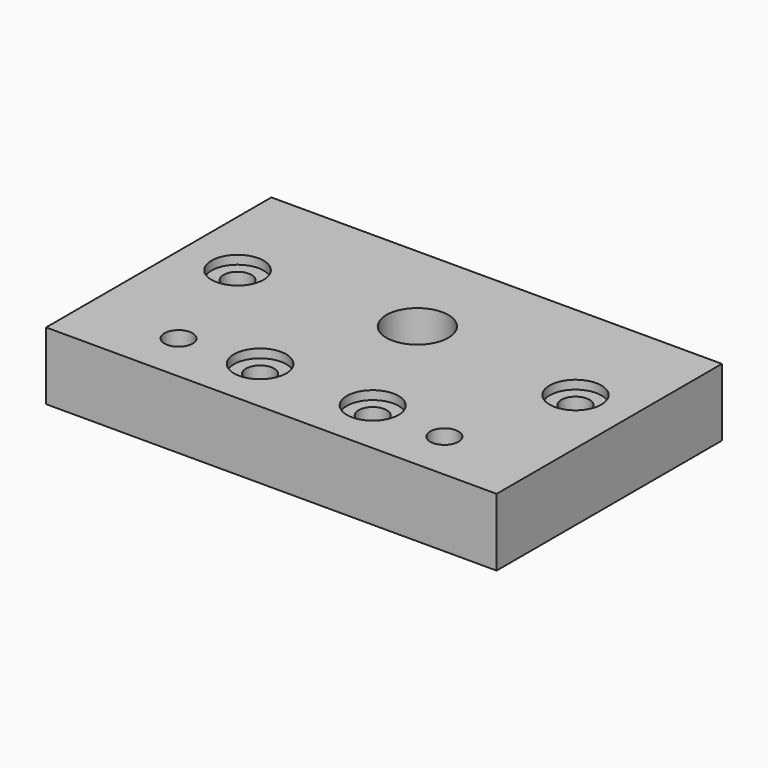
from build123d import *

# Parameters (mm, degrees)
SKETCH120_W     = 80
SKETCH120_H     = 50
SKETCH120_R     = 2.5
SKETCH120_R_2   = 5.5
PAD038_DEPTH    = 12
SKETCH121_R     = 2.5
POCKET077_DEPTH = 11
SKETCH122_R     = 8.05
POCKET078_DEPTH = 4.5
SKETCH123_R     = 4.6
SKETCH123_R_2   = 4.624594
SKETCH123_R_3   = 4.583454
SKETCH123_R_4   = 4.624604
POCKET079_DEPTH = 1.55


with BuildPart() as part:
    # Sketch120 → Pad038 (new body)
    with BuildSketch(Plane(origin=(260, 40, 352), x_dir=(-1, 0, 0), z_dir=(0, 0, -1))):
        with Locations((40, 25)):
            Rectangle(SKETCH120_W, SKETCH120_H)
        with Locations((10, 30)):
            Circle(SKETCH120_R, mode=Mode.SUBTRACT)
        with Locations((30, 10)):
            Circle(SKETCH120_R, mode=Mode.SUBTRACT)
        with Locations((16.4, 8.9)):
            Circle(SKETCH120_R, mode=Mode.SUBTRACT)
        with Locations((50, 10)):
            Circle(SKETCH120_R, mode=Mode.SUBTRACT)
        with Locations((63.6, 8.9)):
            Circle(SKETCH120_R, mode=Mode.SUBTRACT)
        with Locations((70, 30)):
            Circle(SKETCH120_R, mode=Mode.SUBTRACT)
        with Locations((40, 32.4)):
            Circle(SKETCH120_R_2, mode=Mode.SUBTRACT)
    extrude(amount=PAD038_DEPTH)

    # Sketch121 → Pocket077 (cut)
    with BuildSketch(Plane(origin=(260, 90, 352), x_dir=(1, 0, 0), z_dir=(0, 1, 0))):
        with Locations((-30.033846, 5.850095)):
            Circle(SKETCH121_R)
        with Locations((-50.003807, 5.788844)):
            Circle(SKETCH121_R)
    extrude(amount=-POCKET077_DEPTH, mode=Mode.SUBTRACT)

    # Sketch122 → Pocket078 (cut)
    with BuildSketch(Plane(origin=(260, 40, 340), x_dir=(-1, 0, 0), z_dir=(0, 0, -1))):
        with Locations((40, 32.4)):
            Circle(SKETCH122_R)
    extrude(amount=-POCKET078_DEPTH, mode=Mode.SUBTRACT)

    # Sketch123 → Pocket079 (cut)
    with BuildSketch(Plane(origin=(260, 40, 352), x_dir=(-1, 0, 0), z_dir=(0, 0, 1))):
        with Locations((10, -30)):
            Circle(SKETCH123_R)
        with Locations((70, -30)):
            Circle(SKETCH123_R_2)
        with Locations((30, -10)):
            Circle(SKETCH123_R_3)
        with Locations((50, -10)):
            Circle(SKETCH123_R_4)
    extrude(amount=-POCKET079_DEPTH, mode=Mode.SUBTRACT)


solid = part.part
